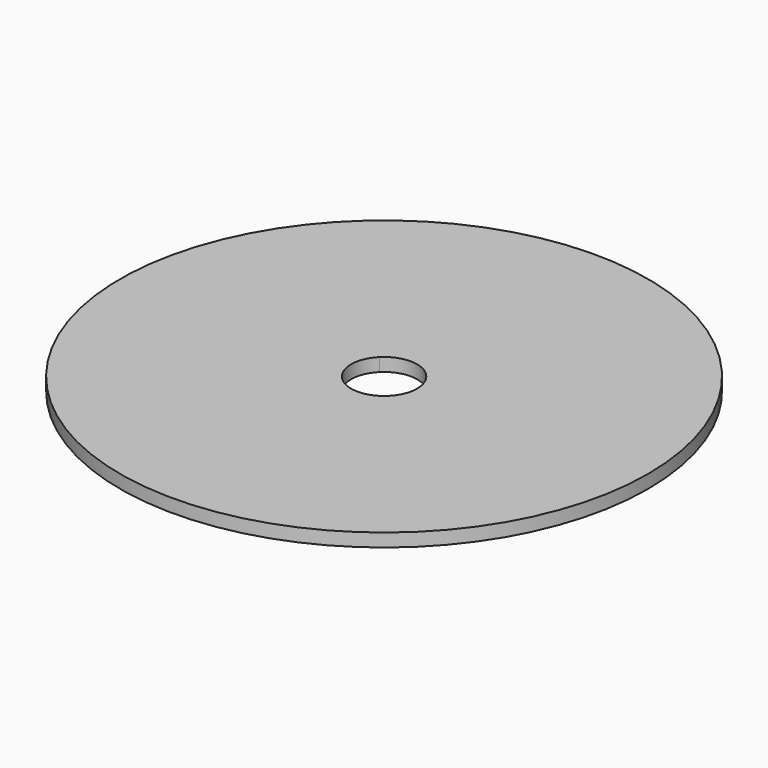
from build123d import *

# Parameters (mm, degrees)
F0_R     = 40
F1_DEPTH = 2
F2_DEPTH = 1
F3_R     = 1
F4_DEPTH = 25


with BuildPart() as f1:
    # F0 (on Top) → F1 (new body)
    with BuildSketch(Plane.XY):
        Circle(F0_R)
        with BuildLine():
            ThreePointArc((-36.4644660941, -3.5355339059), (-16.4644660941, -23.5355339059), (3.5355339059, -3.5355339059))
            Line((3.5355339059, -3.5355339059), (5.7855339059, -3.5355339059))
            ThreePointArc((5.7855339059, -3.5355339059), (-16.4644660941, -25.7855339059), (-38.7144660941, -3.5355339059))
            Line((-38.7144660941, -3.5355339059), (-36.4644660941, -3.5355339059))
        make_face(mode=Mode.SUBTRACT)
        with BuildLine():
            ThreePointArc((3.5355339059, -36.4644660941), (23.5355339059, -16.4644660941), (3.5355339059, 3.5355339059))
            Line((3.5355339059, 3.5355339059), (3.5355339059, 5.7855339059))
            ThreePointArc((3.5355339059, 5.7855339059), (25.7855339059, -16.4644660941), (3.5355339059, -38.7144660941))
            Line((3.5355339059, -38.7144660941), (3.5355339059, -36.4644660941))
        make_face(mode=Mode.SUBTRACT)
        with BuildLine():
            ThreePointArc((-3.5355339059, 36.4644660941), (-23.5355339059, 16.4644660941), (-3.5355339059, -3.5355339059))
            Line((-3.5355339059, -3.5355339059), (-3.5355339059, -5.7855339059))
            ThreePointArc((-3.5355339059, -5.7855339059), (-25.7855339059, 16.4644660941), (-3.5355339059, 38.7144660941))
            Line((-3.5355339059, 38.7144660941), (-3.5355339059, 36.4644660941))
        make_face(mode=Mode.SUBTRACT)
        with BuildLine():
            ThreePointArc((3.5355339059, 3.5355339059), (4.6193976626, 1.9134171618), (5, 0))
            ThreePointArc((5, 0), (4.6193976626, -1.9134171618), (3.5355339059, -3.5355339059))
            ThreePointArc((3.5355339059, -3.5355339059), (0, -5), (-3.5355339059, -3.5355339059))
            ThreePointArc((-3.5355339059, -3.5355339059), (-5, 0), (-3.5355339059, 3.5355339059))
            ThreePointArc((-3.5355339059, 3.5355339059), (0, 5), (3.5355339059, 3.5355339059))
        make_face(mode=Mode.SUBTRACT)
        with BuildLine():
            ThreePointArc((36.4644660941, 3.5355339059), (16.4644660941, 23.5355339059), (-3.5355339059, 3.5355339059))
            Line((-3.5355339059, 3.5355339059), (-5.7855339059, 3.5355339059))
            ThreePointArc((-5.7855339059, 3.5355339059), (16.4644660941, 25.7855339059), (38.7144660941, 3.5355339059))
            Line((38.7144660941, 3.5355339059), (36.4644660941, 3.5355339059))
        make_face(mode=Mode.SUBTRACT)
        with BuildLine():
            Line((-3.5355339059, -5.7855339059), (-3.5355339059, -3.5355339059))
            ThreePointArc((-3.5355339059, -3.5355339059), (-23.5355339059, 16.4644660941), (-3.5355339059, 36.4644660941))
            Line((-3.5355339059, 36.4644660941), (-3.5355339059, 38.7144660941))
            ThreePointArc((-3.5355339059, 38.7144660941), (-25.7855339059, 16.4644660941), (-3.5355339059, -5.7855339059))
        make_face()
        with BuildLine():
            Line((5.7855339059, -3.5355339059), (3.5355339059, -3.5355339059))
            ThreePointArc((3.5355339059, -3.5355339059), (-16.4644660941, -23.5355339059), (-36.4644660941, -3.5355339059))
            Line((-36.4644660941, -3.5355339059), (-38.7144660941, -3.5355339059))
            ThreePointArc((-38.7144660941, -3.5355339059), (-16.4644660941, -25.7855339059), (5.7855339059, -3.5355339059))
        make_face()
        with BuildLine():
            Line((3.5355339059, 5.7855339059), (3.5355339059, 3.5355339059))
            ThreePointArc((3.5355339059, 3.5355339059), (23.5355339059, -16.4644660941), (3.5355339059, -36.4644660941))
            Line((3.5355339059, -36.4644660941), (3.5355339059, -38.7144660941))
            ThreePointArc((3.5355339059, -38.7144660941), (25.7855339059, -16.4644660941), (3.5355339059, 5.7855339059))
        make_face()
        with BuildLine():
            Line((-5.7855339059, 3.5355339059), (-3.5355339059, 3.5355339059))
            ThreePointArc((-3.5355339059, 3.5355339059), (16.4644660941, 23.5355339059), (36.4644660941, 3.5355339059))
            Line((36.4644660941, 3.5355339059), (38.7144660941, 3.5355339059))
            ThreePointArc((38.7144660941, 3.5355339059), (16.4644660941, 25.7855339059), (-5.7855339059, 3.5355339059))
        make_face()
        Polygon((0, 0), (3.5355339059, 3.5355339059), (-3.5355339059, 3.5355339059), align=None)
        with BuildLine():
            Line((-3.5355339059, 3.5355339059), (3.5355339059, 3.5355339059))
            ThreePointArc((3.5355339059, 3.5355339059), (0, 5), (-3.5355339059, 3.5355339059))
        make_face()
        Polygon((0, 0), (-3.5355339059, 3.5355339059), (-3.5355339059, -3.5355339059), align=None)
        Polygon((-3.5355339059, -3.5355339059), (3.5355339059, -3.5355339059), (0, 0), align=None)
        Polygon((3.5355339059, -3.5355339059), (3.5355339059, 3.5355339059), (0, 0), align=None)
        with BuildLine():
            ThreePointArc((3.5355339059, -3.5355339059), (4.6193976626, -1.9134171618), (5, 0))
            ThreePointArc((5, 0), (4.6193976626, 1.9134171618), (3.5355339059, 3.5355339059))
            Line((3.5355339059, 3.5355339059), (3.5355339059, -3.5355339059))
        make_face()
        with BuildLine():
            ThreePointArc((-3.5355339059, -3.5355339059), (0, -5), (3.5355339059, -3.5355339059))
            Line((3.5355339059, -3.5355339059), (-3.5355339059, -3.5355339059))
        make_face()
        with BuildLine():
            Line((-3.5355339059, -3.5355339059), (-3.5355339059, 3.5355339059))
            ThreePointArc((-3.5355339059, 3.5355339059), (-5, 0), (-3.5355339059, -3.5355339059))
        make_face()
    extrude(amount=F1_DEPTH)

    # F0 (on Top) → F2 (cut)
    with BuildSketch(Plane.XY):
        with BuildLine():
            Line((-5.7855339059, 3.5355339059), (-3.5355339059, 3.5355339059))
            ThreePointArc((-3.5355339059, 3.5355339059), (16.4644660941, 23.5355339059), (36.4644660941, 3.5355339059))
            Line((36.4644660941, 3.5355339059), (38.7144660941, 3.5355339059))
            ThreePointArc((38.7144660941, 3.5355339059), (16.4644660941, 25.7855339059), (-5.7855339059, 3.5355339059))
        make_face()
        with BuildLine():
            Line((3.5355339059, 5.7855339059), (3.5355339059, 3.5355339059))
            ThreePointArc((3.5355339059, 3.5355339059), (23.5355339059, -16.4644660941), (3.5355339059, -36.4644660941))
            Line((3.5355339059, -36.4644660941), (3.5355339059, -38.7144660941))
            ThreePointArc((3.5355339059, -38.7144660941), (25.7855339059, -16.4644660941), (3.5355339059, 5.7855339059))
        make_face()
        with BuildLine():
            Line((5.7855339059, -3.5355339059), (3.5355339059, -3.5355339059))
            ThreePointArc((3.5355339059, -3.5355339059), (-16.4644660941, -23.5355339059), (-36.4644660941, -3.5355339059))
            Line((-36.4644660941, -3.5355339059), (-38.7144660941, -3.5355339059))
            ThreePointArc((-38.7144660941, -3.5355339059), (-16.4644660941, -25.7855339059), (5.7855339059, -3.5355339059))
        make_face()
        with BuildLine():
            Line((-3.5355339059, -5.7855339059), (-3.5355339059, -3.5355339059))
            ThreePointArc((-3.5355339059, -3.5355339059), (-23.5355339059, 16.4644660941), (-3.5355339059, 36.4644660941))
            Line((-3.5355339059, 36.4644660941), (-3.5355339059, 38.7144660941))
            ThreePointArc((-3.5355339059, 38.7144660941), (-25.7855339059, 16.4644660941), (-3.5355339059, -5.7855339059))
        make_face()
    extrude(amount=F2_DEPTH, mode=Mode.SUBTRACT)

    # F3
    f3_edges = [f1.edges().sort_by_distance(p)[0] for p in [
        (-5.785534, 3.535534, 0.5),
        (-3.535534, 3.535534, 0.5),
        (-3.535534, -5.785534, 0.5),
        (-3.535534, -3.535534, 0.5),
        (5.785534, -3.535534, 0.5),
        (3.535534, -3.535534, 0.5),
        (3.535534, 5.785534, 0.5),
        (3.535534, 3.535534, 0.5),
        (3.535534, -38.714466, 0.5),
        (3.535534, -36.464466, 0.5),
        (-38.714466, -3.535534, 0.5),
        (-36.464466, -3.535534, 0.5),
        (-3.535534, 38.714466, 0.5),
        (-3.535534, 36.464466, 0.5),
        (38.714466, 3.535534, 0.5),
        (36.464466, 3.535534, 0.5),
    ]]
    fillet(f3_edges, radius=F3_R)

    # F0 (on Top) → F4 (cut)
    with BuildSketch(Plane.XY):
        Polygon((3.5355339059, -3.5355339059), (3.5355339059, 3.5355339059), (0, 0), align=None)
        with BuildLine():
            ThreePointArc((3.5355339059, -3.5355339059), (4.6193976626, -1.9134171618), (5, 0))
            ThreePointArc((5, 0), (4.6193976626, 1.9134171618), (3.5355339059, 3.5355339059))
            Line((3.5355339059, 3.5355339059), (3.5355339059, -3.5355339059))
        make_face()
        Polygon((-3.5355339059, -3.5355339059), (3.5355339059, -3.5355339059), (0, 0), align=None)
        with BuildLine():
            ThreePointArc((-3.5355339059, -3.5355339059), (0, -5), (3.5355339059, -3.5355339059))
            Line((3.5355339059, -3.5355339059), (-3.5355339059, -3.5355339059))
        make_face()
        Polygon((0, 0), (-3.5355339059, 3.5355339059), (-3.5355339059, -3.5355339059), align=None)
        Polygon((0, 0), (3.5355339059, 3.5355339059), (-3.5355339059, 3.5355339059), align=None)
        with BuildLine():
            Line((-3.5355339059, 3.5355339059), (3.5355339059, 3.5355339059))
            ThreePointArc((3.5355339059, 3.5355339059), (0, 5), (-3.5355339059, 3.5355339059))
        make_face()
        with BuildLine():
            Line((-3.5355339059, -3.5355339059), (-3.5355339059, 3.5355339059))
            ThreePointArc((-3.5355339059, 3.5355339059), (-5, 0), (-3.5355339059, -3.5355339059))
        make_face()
    extrude(amount=F4_DEPTH, mode=Mode.SUBTRACT)


solid = f1.part
